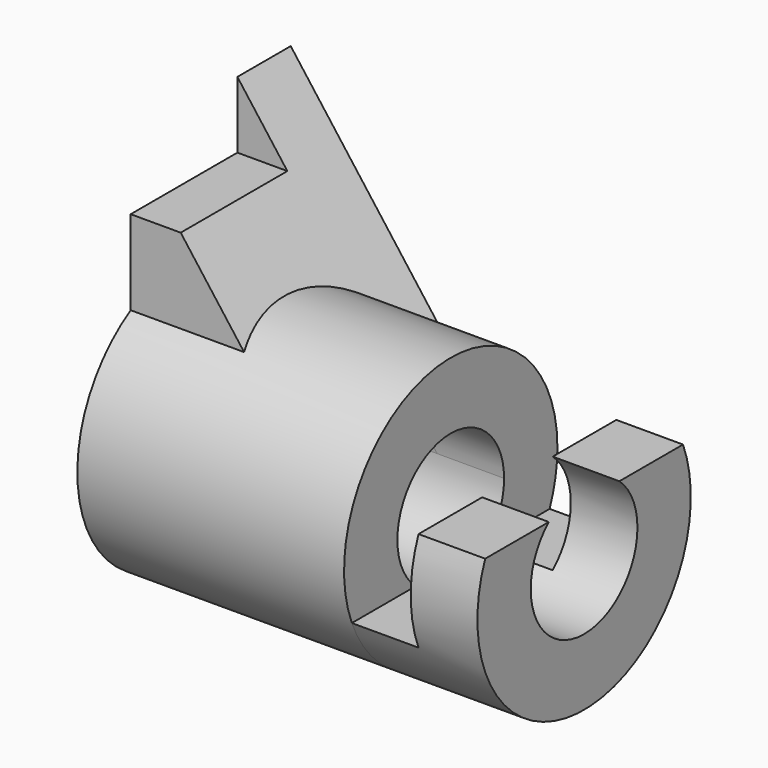
from build123d import *

# Parameters (mm, degrees)
F0_R      = 25.4
F0_R_2    = 12.7
F1_DEPTH  = 50.8
F3_DEPTH  = 12.7
F5_DEPTH  = 12.7
F8_DEPTH  = 19.05
F9_R      = 12.7
F10_DEPTH = 76.2
F11_W     = 25.4
F11_H     = 12.7
F12_DEPTH = 50.8


with BuildPart() as f1:
    # F0 (on Right) → F1 (new body)
    with BuildSketch(Plane.YZ):
        Circle(F0_R)
        Circle(F0_R_2, mode=Mode.SUBTRACT)
    extrude(amount=-F1_DEPTH)

    # F2 (on face) → F3 (join)
    with BuildSketch(Plane.YZ):
        with BuildLine():
            Line((-8.4002604126, -9.525), (-23.5464301965, -9.525))
            ThreePointArc((-23.5464301965, -9.525), (0, -25.4), (23.5464301965, -9.525))
            Line((23.5464301965, -9.525), (8.4002604126, -9.525))
            ThreePointArc((8.4002604126, -9.525), (0, -12.7), (-8.4002604126, -9.525))
        make_face()
    extrude(amount=F3_DEPTH)

    # F4 (on face) → F5 (join)
    with BuildSketch(Plane.YZ.offset(12.7)):
        with BuildLine():
            Line((-8.4002604126, 9.525), (-23.5464301965, 9.525))
            ThreePointArc((-23.5464301965, 9.525), (-25.4, 0), (-23.5464301965, -9.525))
            Line((-23.5464301965, -9.525), (-8.4002604126, -9.525))
            ThreePointArc((-8.4002604126, -9.525), (-12.7, 0), (-8.4002604126, 9.525))
        make_face()
        with BuildLine():
            Line((8.4002604126, -9.525), (23.5464301965, -9.525))
            ThreePointArc((23.5464301965, -9.525), (25.4, 0), (23.5464301965, 9.525))
            Line((23.5464301965, 9.525), (8.4002604126, 9.525))
            ThreePointArc((8.4002604126, 9.525), (12.7, 0), (8.4002604126, -9.525))
        make_face()
        with BuildLine():
            Line((-8.4002604126, -9.525), (-23.5464301965, -9.525))
            ThreePointArc((-23.5464301965, -9.525), (0, -25.4), (23.5464301965, -9.525))
            Line((23.5464301965, -9.525), (8.4002604126, -9.525))
            ThreePointArc((8.4002604126, -9.525), (0, -12.7), (-8.4002604126, -9.525))
        make_face()
    extrude(amount=F5_DEPTH)

    # F7 (on offset) → F8 (join, symmetric)
    with BuildSketch(Plane.XZ.offset(-6.35)):
        Polygon((-50.8, 0), (-12.7, 0), (-50.8, 50.8), align=None)
    extrude(amount=F8_DEPTH, both=True)

    # F9 (on face) → F10 (cut)
    with BuildSketch(Plane(origin=(-50.8, 0, 0), x_dir=(0, -1, 0), z_dir=(-1, 0, 0))):
        Circle(F9_R)
    extrude(amount=-F10_DEPTH, mode=Mode.SUBTRACT)

    # F11 (on Right) → F12 (cut)
    with BuildSketch(Plane.YZ):
        with Locations((0, 44.45)):
            Rectangle(F11_W, F11_H)
    extrude(amount=-F12_DEPTH, mode=Mode.SUBTRACT)


solid = f1.part
